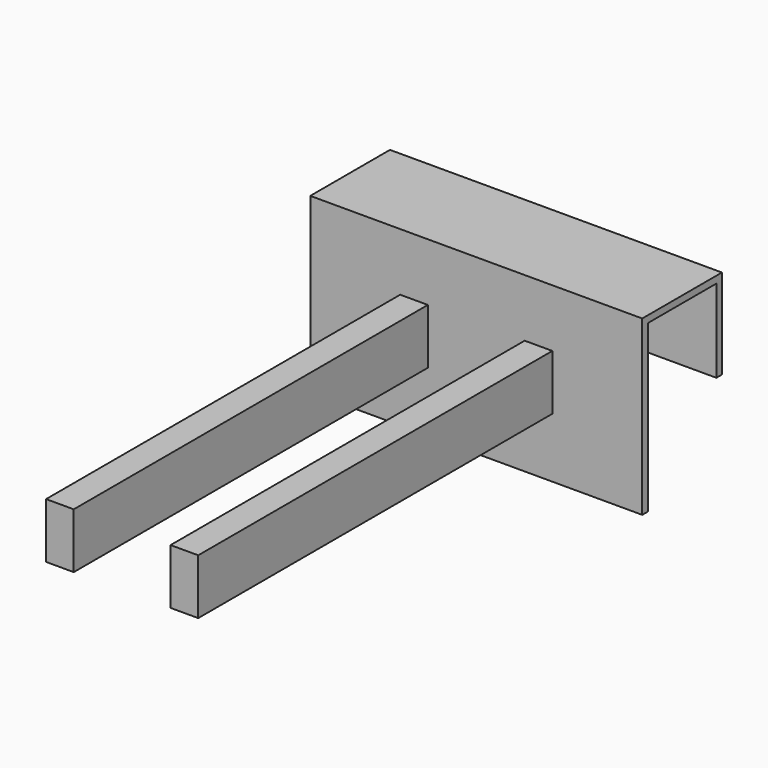
from build123d import *

# Parameters (mm, degrees)
F1_DEPTH = 152.4
F2_W     = 12.7
F2_H     = 25.4
F3_DEPTH = 203.2


with BuildPart() as f1:
    # F0 (on Right) → F1 (new body)
    with BuildSketch(Plane.YZ):
        Polygon((-3.175, -76.2), (0, -76.2), (0, 0), (39.37, 0), (39.37, -38.1), (42.545, -38.1), (42.545, 3.175), (-3.175, 3.175), align=None)
    extrude(amount=F1_DEPTH)

    # F2 (on face) → F3 (join)
    with BuildSketch(Plane.XZ.offset(3.175)):
        with Locations((47.625, -36.054839)):
            Rectangle(F2_W, F2_H)
        with Locations((104.775, -36.054839)):
            Rectangle(F2_W, F2_H)
    extrude(amount=F3_DEPTH)


solid = f1.part
